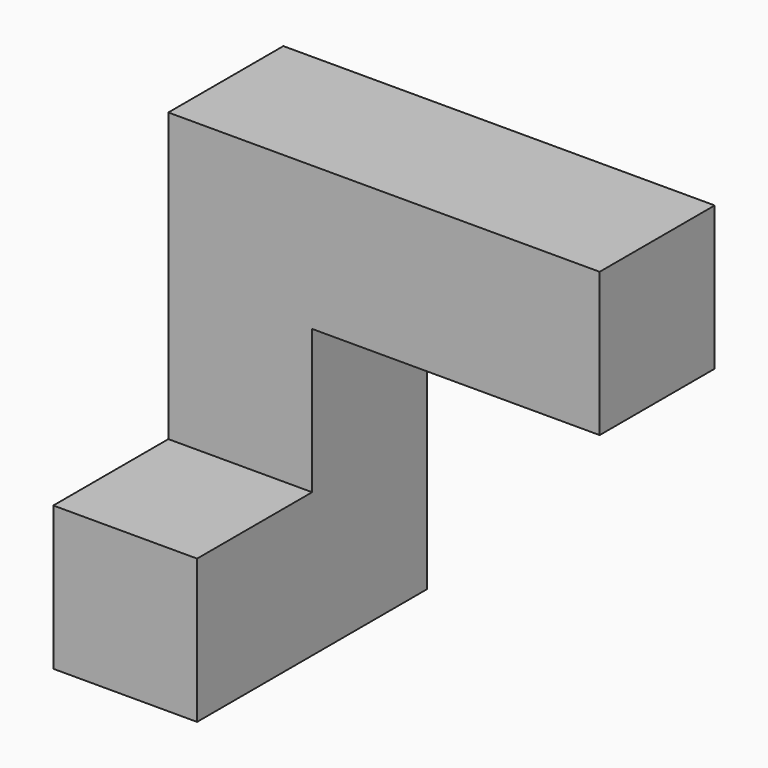
from build123d import *

# Parameters (mm, degrees)
F0_W     = 38.1
F0_H     = 19.05
F1_DEPTH = 19.05
F2_W     = 19.05
F2_H     = 19.05
F3_DEPTH = 19.05


with BuildPart() as f1:
    # F0 (on Front) → F1 (new body)
    with BuildSketch(Plane.XZ):
        with Locations((19.05, 18.152233)):
            Rectangle(F0_W, F0_H)
        Polygon((0, 27.677233), (-19.05, 27.677233), (-19.05, -29.472767), (0, -29.472767), (0, 8.627233), align=None)
    extrude(amount=F1_DEPTH)

    # F2 (on face) → F3 (join)
    with BuildSketch(Plane.XZ.offset(19.05)):
        with Locations((-9.525, -19.947767)):
            Rectangle(F2_W, F2_H)
    extrude(amount=F3_DEPTH)


solid = f1.part
